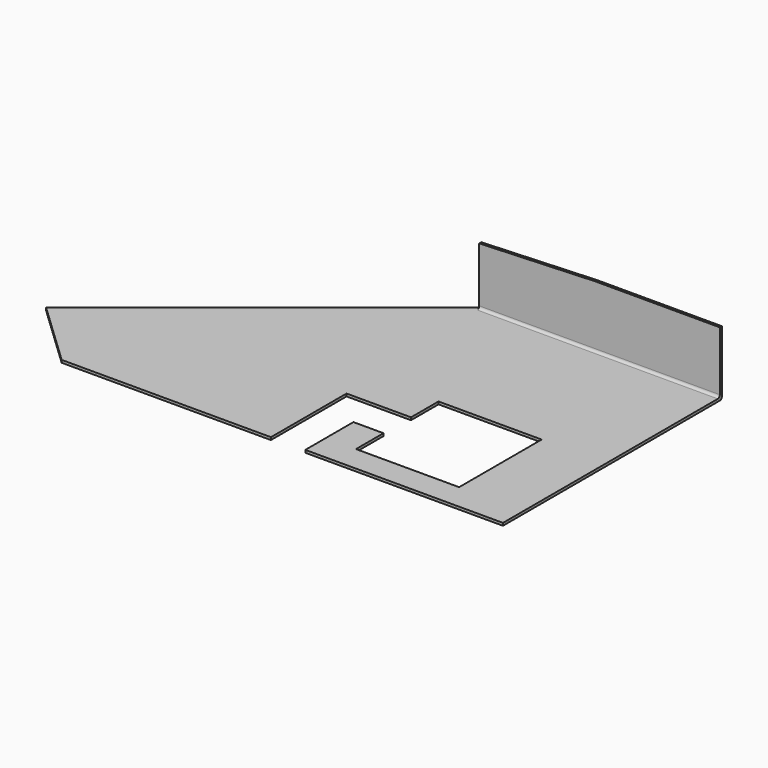
from build123d import *

# Parameters (mm, degrees)
F1_DEPTH = 3
F3_DEPTH = 3
F4_R     = 3


with BuildPart() as f1:
    # F0 (on Top) → F1 (new body)
    with BuildSketch(Plane.XY):
        Polygon((-230, 0), (0, 0), (0, 318.5), (-280, 318.5), (-588.845279, 71.5), (-513.5, 0), (-270, 0), (-270, 110), (-195, 110), (-195, 150), (-75, 150), (-75, 30), (-195, 30), (-195, 70), (-230, 70), align=None)
    extrude(amount=F1_DEPTH)

    # F2 (on face) → F3 (join)
    with BuildSketch(Plane(origin=(0, 318.5, 0), x_dir=(-1, 0, 0), z_dir=(0, 1, 0))):
        Polygon((0, 75), (0, 3), (280, 3), (280, 70), (145, 75), align=None)
    extrude(amount=-F3_DEPTH)

    # F4
    f4_edges = [f1.edges().sort_by_distance(p)[0] for p in [
        (-140, 315.5, 3),
        (-140, 318.5, 0),
    ]]
    fillet(f4_edges, radius=F4_R)


solid = f1.part
